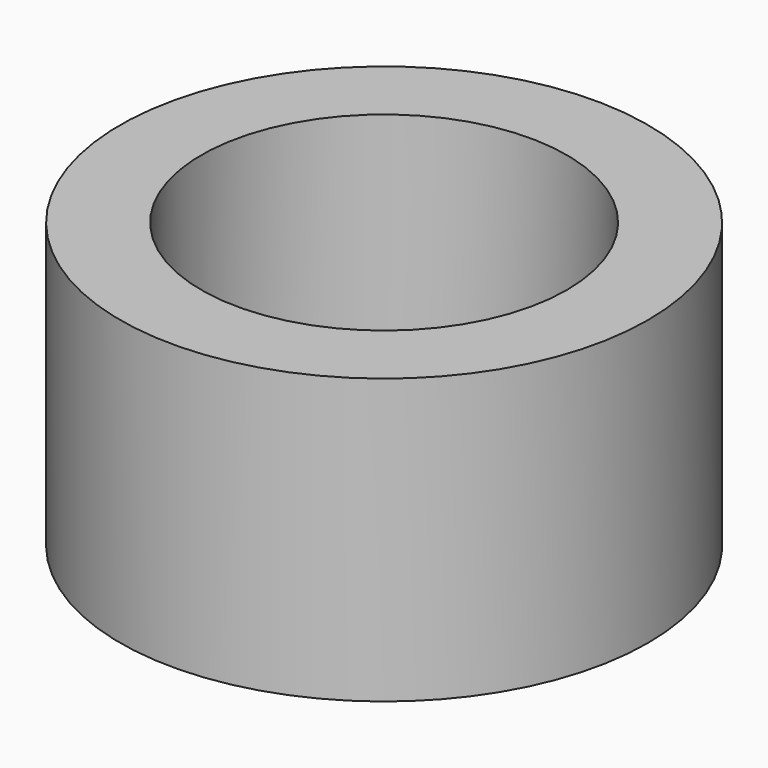
from build123d import *

# Parameters (mm, degrees)
F0_R     = 8.255
F1_DEPTH = 8.89
F2_T     = -2.54
F4_DEPTH = 25.4


with BuildPart() as f1:
    # F0 (on Top) → F1 (new body)
    with BuildSketch(Plane.XY):
        with Locations((-23.585714, 0)):
            Circle(F0_R)
    extrude(amount=F1_DEPTH)

    # F2
    f2_openings = [f1.faces().sort_by_distance(p)[0] for p in [
        (-23.585714, 0, 8.89),
    ]]
    offset(amount=F2_T, openings=f2_openings)

    # F3 (on face) → F4 (cut)
    with BuildSketch(Plane(origin=(0, 0, 0), x_dir=(1, 0, 0), z_dir=(0, 0, -1))):
        with BuildLine():
            ThreePointArc((-23.191576, -0.919655), (-25.359602, -0.02163), (-24.461576, -2.189655))
            ThreePointArc((-24.461576, -2.189655), (-23.563551, -1.817681), (-23.191576, -0.919655))
        make_face()
    extrude(amount=-F4_DEPTH, mode=Mode.SUBTRACT)


solid = f1.part
